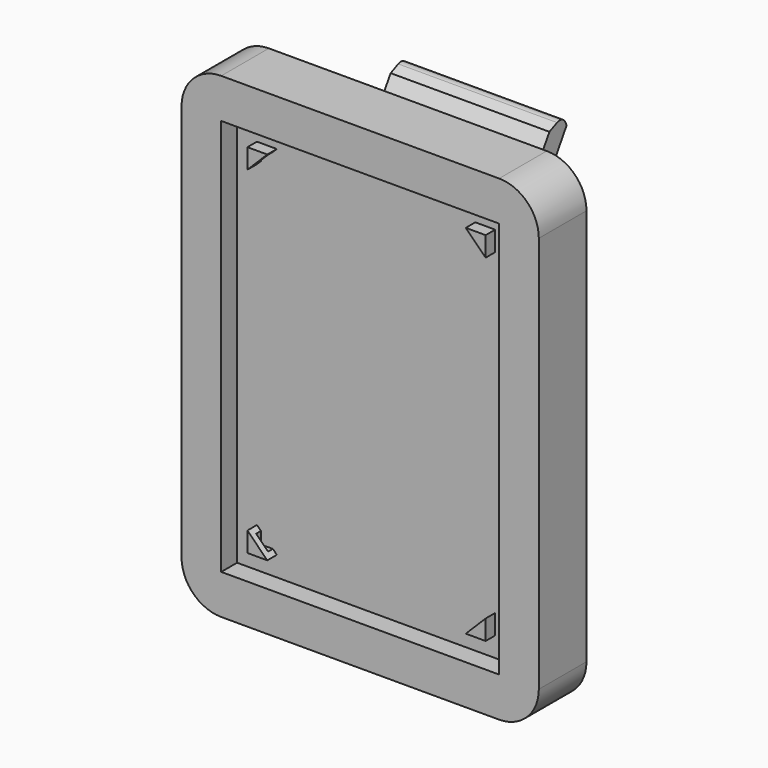
from build123d import *

# Parameters (mm, degrees)
F1_DEPTH  = 15
F2_W      = 70
F2_H      = 100
F3_DEPTH  = 5
F4_W      = 40
F4_H      = 50
F5_DEPTH  = 25
F7_DEPTH  = 40
F9_DEPTH  = 40
F11_DEPTH = 3
F13_DEPTH = 1.5
F14_DEPTH = 1.5


with BuildPart() as f1:
    # F0 (on Front) → F1 (new body)
    with BuildSketch(Plane.XZ):
        with BuildLine():
            ThreePointArc((-80, 0), (-87.071068, -2.928932), (-90, -10))
            Line((-90, -10), (-90, -110))
            ThreePointArc((-90, -110), (-87.071068, -117.071068), (-80, -120))
            Line((-80, -120), (-10, -120))
            ThreePointArc((-10, -120), (-2.928932, -117.071068), (0, -110))
            Line((0, -110), (0, -10))
            ThreePointArc((0, -10), (-2.928932, -2.928932), (-10, 0))
            Line((-10, 0), (-80, 0))
        make_face()
    extrude(amount=F1_DEPTH)

    # F2 (on face) → F3 (cut)
    with BuildSketch(Plane.XZ.offset(15)):
        with Locations((-45, -60)):
            Rectangle(F2_W, F2_H)
    extrude(amount=-F3_DEPTH, mode=Mode.SUBTRACT)

    # F4 (on face) → F5 (join)
    with BuildSketch(Plane(origin=(0, 0, 0), x_dir=(-1, 0, 0), z_dir=(0, 1, 0))):
        with Locations((45, -25)):
            Rectangle(F4_W, F4_H)
    extrude(amount=F5_DEPTH)

    # F6 (on face) → F7 (cut)
    with BuildSketch(Plane(origin=(-65, 0, 0), x_dir=(0, -1, 0), z_dir=(-1, 0, 0))):
        Polygon((0, -39.708052), (0, 0), (-25, 0), align=None)
        Polygon((-25, -9.351011), (-25, -50), (0, -50), align=None)
    extrude(amount=-F7_DEPTH, mode=Mode.SUBTRACT)

    # F8 (on face) → F9 (cut)
    with BuildSketch(Plane(origin=(-65, 0, 0), x_dir=(0, -1, 0), z_dir=(-1, 0, 0))):
        with BuildLine():
            Line((-19.594347, -8.585918), (-25, 0))
            Line((-25, 0), (-25, -9.351011))
            Line((-25, -9.351011), (-24.627329, -8.520231))
            ThreePointArc((-24.627329, -8.520231), (-23.514035, -7.469649), (-21.983944, -7.513993))
            Line((-21.983944, -7.513993), (-19.594347, -8.585918))
        make_face()
    extrude(amount=-F9_DEPTH, mode=Mode.SUBTRACT)

    # F10 (on face) → F11 (join)
    with BuildSketch(Plane.XZ.offset(10)):
        Polygon((-20, -15), (-15, -20), (-15, -15), align=None)
        Polygon((-70, -105), (-75, -100), (-75, -105), align=None)
        Polygon((-75, -20), (-70, -15), (-75, -15), align=None)
        Polygon((-15, -100), (-20, -105), (-15, -105), align=None)
    extrude(amount=F11_DEPTH)

    # F12 (on face) → F13 (cut)
    with BuildSketch(Plane.XZ.offset(10)):
        Polygon((-74, -19), (-71, -16), (-74, -16), align=None)
        Polygon((-19, -16), (-16, -19), (-16, -16), align=None)
        Polygon((-71, -104), (-74, -101), (-74, -104), align=None)
        Polygon((-16, -101), (-19, -104), (-16, -104), align=None)
    extrude(amount=F13_DEPTH, mode=Mode.SUBTRACT)

    # F12 (on face) → F14 (cut)
    with BuildSketch(Plane.XZ.offset(10)):
        Polygon((-74, -19), (-71, -16), (-74, -16), align=None)
        Polygon((-19, -16), (-16, -19), (-16, -16), align=None)
        Polygon((-71, -104), (-74, -101), (-74, -104), align=None)
        Polygon((-16, -101), (-19, -104), (-16, -104), align=None)
    extrude(amount=F14_DEPTH, mode=Mode.SUBTRACT)


solid = f1.part
